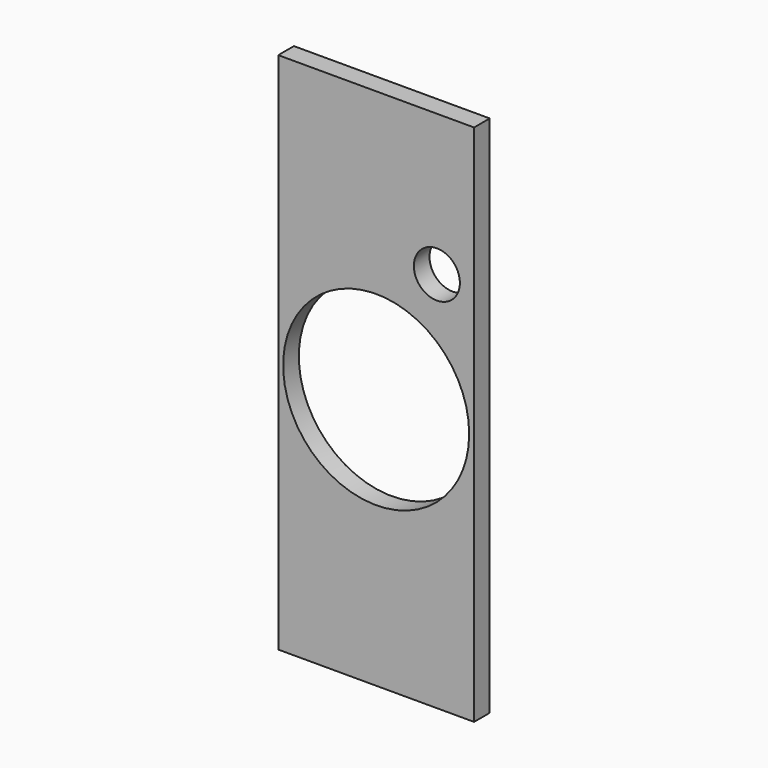
from build123d import *

# Parameters (mm, degrees)
F0_R     = 9.5
F1_DEPTH = 2


with BuildPart() as f1:
    # F0 (on Front) → F1 (new body)
    with BuildSketch(Plane.XZ):
        Polygon((-10, 15.459854), (-10, -23.540146), (10, -23.540146), (10, 29.909854), (9.25, 29.909854), (-9.25, 29.909854), (-10, 29.909854), align=None)
        with Locations((0, 2.189854)):
            Circle(F0_R, mode=Mode.SUBTRACT)
        with BuildLine():
            ThreePointArc((8.55, 15.459854), (6.2, 13.109854), (3.85, 15.459854))
            ThreePointArc((3.85, 15.459854), (6.2, 17.809854), (8.55, 15.459854))
        make_face(mode=Mode.SUBTRACT)
    extrude(amount=F1_DEPTH)


solid = f1.part
